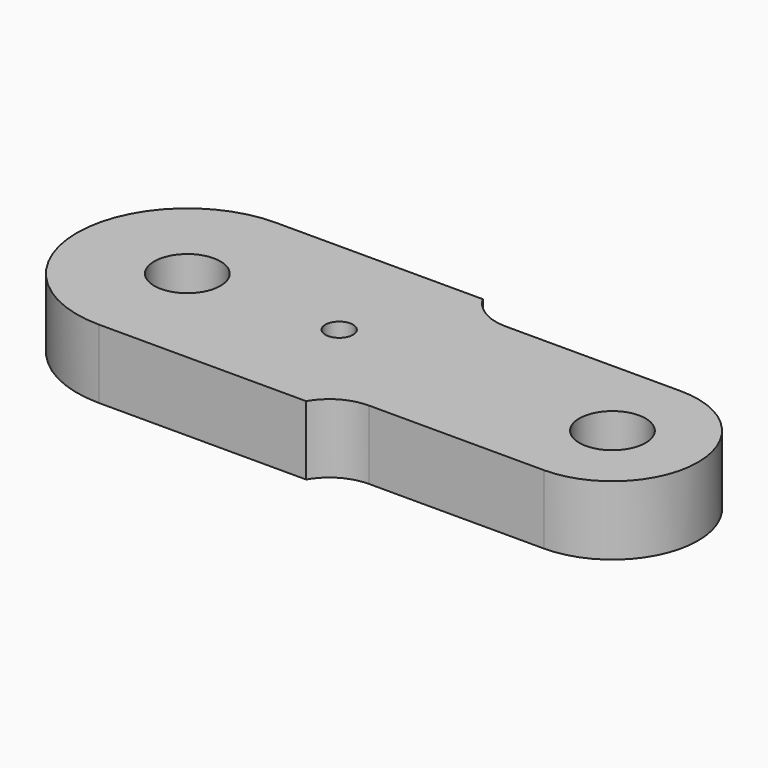
from build123d import *

# Parameters (mm, degrees)
F0_R     = 12
F0_R_2   = 5
F1_DEPTH = 25


with BuildPart() as f1:
    # F0 (on Top) → F1 (new body)
    with BuildSketch(Plane.XY):
        with BuildLine():
            Line((-49.05109, 40), (-124.05109, 40))
            ThreePointArc((-124.05109, 40), (-164.05109, 0), (-124.05109, -40))
            Line((-124.05109, -40), (-49.05109, -40))
            ThreePointArc((-49.05109, -40), (-42.462633, -33.411543), (-33.462633, -31))
            Line((-33.462633, -31), (29.913999, -31))
            ThreePointArc((29.913999, -31), (60.913999, 0), (29.913999, 31))
            Line((29.913999, 31), (-33.462633, 31))
            ThreePointArc((-33.462633, 31), (-42.462633, 33.411543), (-49.05109, 40))
        make_face()
        with Locations((-124.05109, 0)):
            Circle(F0_R, mode=Mode.SUBTRACT)
        with Locations((-69.05109, 0)):
            Circle(F0_R_2, mode=Mode.SUBTRACT)
        with Locations((29.913999, 0)):
            Circle(F0_R, mode=Mode.SUBTRACT)
    extrude(amount=F1_DEPTH)


solid = f1.part
